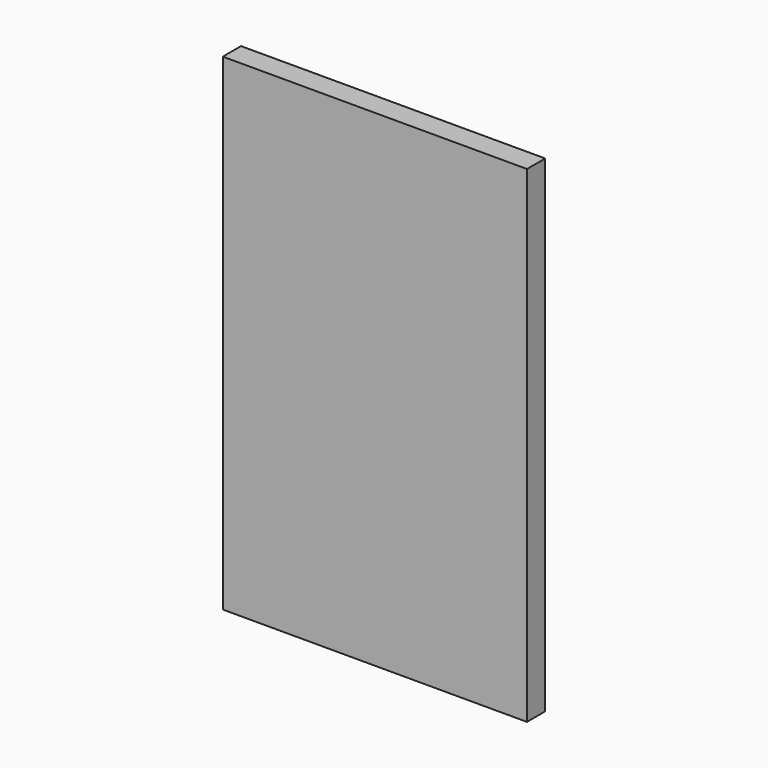
from build123d import *

# Parameters (mm, degrees)
F0_W     = 13.5
F0_H     = 24.5
F0_W_2   = 11.5
F0_H_2   = 22.5
F1_DEPTH = 13
F2_W     = 13.5
F2_H     = 24.5
F2_W_2   = 11.5
F2_H_2   = 22.5
F3_DEPTH = 3


with BuildPart() as f1:
    # F0 (on Front) → F1 (new body)
    with BuildSketch(Plane.XZ):
        Rectangle(F0_W, F0_H)
        Rectangle(F0_W_2, F0_H_2, mode=Mode.SUBTRACT)
    extrude(amount=F1_DEPTH)

    # F2 (on face) → F3 (join)
    with BuildSketch(Plane.XZ.offset(13)):
        Polygon((-20, 51.75), (-20, -12.25), (-6.75, -12.25), (-6.75, 12.25), (6.75, 12.25), (6.75, -12.25), (20, -12.25), (20, 51.75), align=None)
        Rectangle(F2_W, F2_H)
        Rectangle(F2_W_2, F2_H_2, mode=Mode.SUBTRACT)
        Rectangle(F2_W_2, F2_H_2)
    extrude(amount=F3_DEPTH)


solid = f1.part
